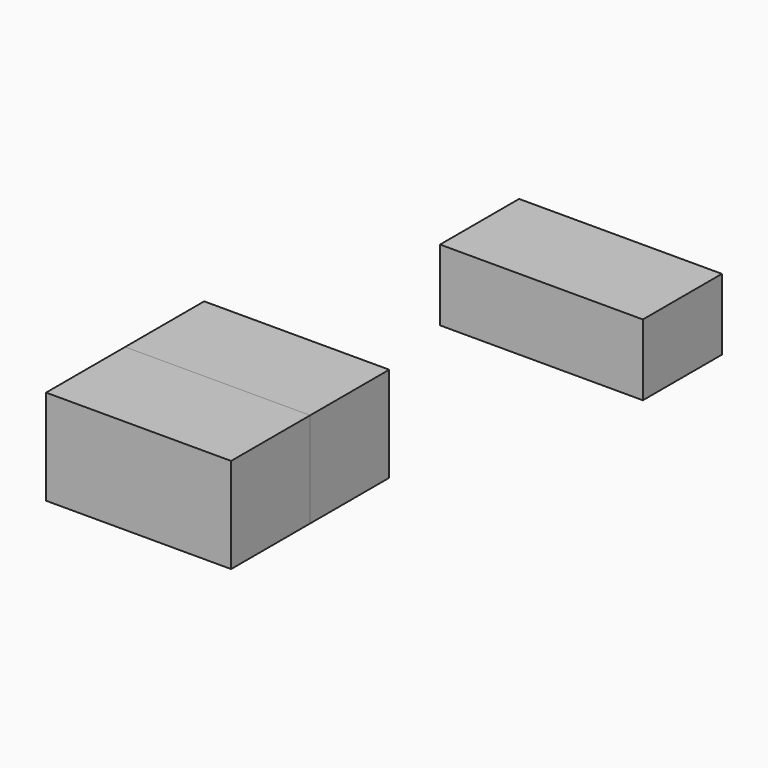
from build123d import *

# Parameters (mm, degrees)
F0_W     = 47.563144
F0_H     = 24.475142
F1_DEPTH = 25.4
F0_W_2   = 52.13651
F0_H_2   = 18.293515
F2_DEPTH = 25.4


with BuildPart() as f1:
    # F0 (on Front) → F1 (new body)
    with BuildSketch(Plane.XZ):
        Rectangle(F0_W, F0_H)
    extrude(amount=F1_DEPTH)


with BuildPart() as f2:
    # F0 (on Front) → F2 (new body)
    with BuildSketch(Plane.XZ):
        with Locations((83.23548, 52.593846)):
            Rectangle(F0_W_2, F0_H_2)
        Rectangle(F0_W, F0_H)
    extrude(amount=-F2_DEPTH)


solid = Compound([f1.part, f2.part])
